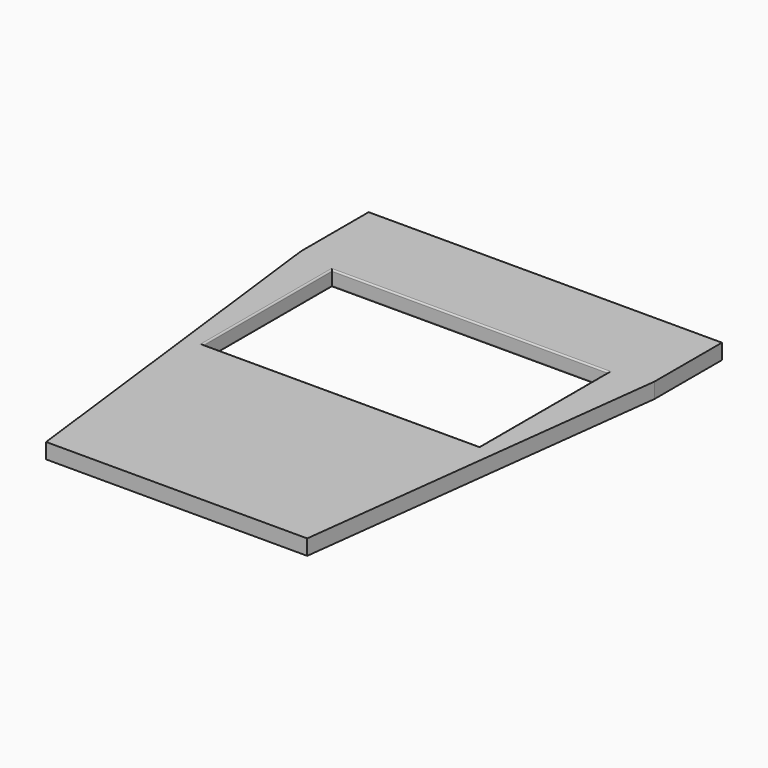
from build123d import *

# Parameters (mm, degrees)
F0_W     = 180
F0_H     = 105
F0_W_2   = 230
F0_H_2   = 55
F0_W_3   = 170
F0_H_3   = 20
F1_DEPTH = 10
F2_R     = 1


with BuildPart() as f1:
    # F0 (on Top) → F1 (new body)
    with BuildSketch(Plane.XY):
        Polygon((85, -129.952139), (115, 115.047861), (-115, 115.047861), (-85, -129.952139), (-85, -109.952139), (85, -109.952139), align=None)
        with Locations((0, 56.453109)):
            Rectangle(F0_W, F0_H, mode=Mode.SUBTRACT)
        with Locations((0, 142.547861)):
            Rectangle(F0_W_2, F0_H_2)
        with Locations((0, -119.952139)):
            Rectangle(F0_W_3, F0_H_3)
    extrude(amount=F1_DEPTH)

    # F2
    f2_edges = [f1.edges().sort_by_distance(p)[0] for p in [
        (0, 108.953109, 0),
        (90, 56.453109, 10),
        (0, 3.953109, 10),
        (-90, 56.453109, 10),
        (0, 3.953109, 0),
        (-90, 56.453109, 0),
        (0, 108.953109, 10),
        (90, 56.453109, 0),
    ]]
    fillet(f2_edges, radius=F2_R)


solid = f1.part
